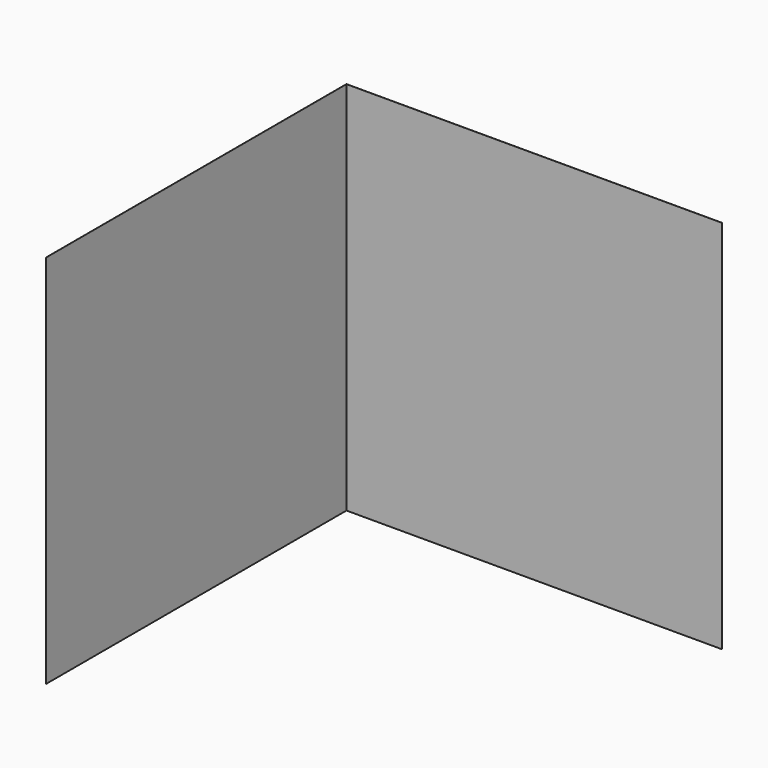
from build123d import *

# Parameters (mm, degrees)
F0_W     = 3000
F0_H     = 0.5
F0_W_2   = 0.5
F0_H_2   = 3000
F1_DEPTH = 3000


with BuildPart() as f1:
    # F0 (on Top) → F1 (new body)
    with BuildSketch(Plane.XY):
        with Locations((1500, 0.25)):
            Rectangle(F0_W, F0_H)
        with Locations((-0.25, -1500)):
            Rectangle(F0_W_2, F0_H_2)
    extrude(amount=F1_DEPTH)


solid = f1.part
